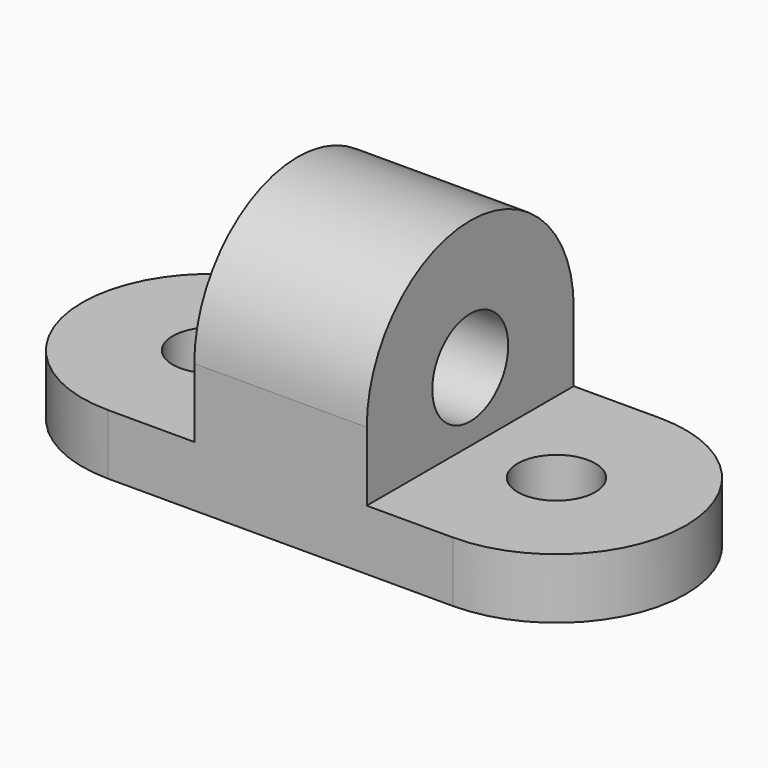
from build123d import *

# Parameters (mm, degrees)
F0_R          = 9
F1_DEPTH      = 14
F2_R          = 11
F3_DEPTH      = 20
F3_DEPTH_BACK = 20


with BuildPart() as f1:
    # F0 (on Top) → F1 (new body)
    with BuildSketch(Plane.XY):
        with BuildLine():
            Line((40, 30), (-40, 30))
            ThreePointArc((-40, 30), (-70, 0), (-40, -30))
            Line((-40, -30), (40, -30))
            ThreePointArc((40, -30), (70, 0), (40, 30))
        make_face()
        with Locations((-40, 0)):
            Circle(F0_R, mode=Mode.SUBTRACT)
        with Locations((40, 0)):
            Circle(F0_R, mode=Mode.SUBTRACT)
    extrude(amount=F1_DEPTH)

    # F2 (on Right) → F3 (join, two sides)
    with BuildSketch(Plane.YZ) as f3_sk:
        with BuildLine():
            Line((30, 13.776121), (30, 30))
            ThreePointArc((30, 30), (0, 60), (-30, 30))
            Line((-30, 30), (-30, 13.871942))
            Line((-30, 13.871942), (30, 13.776121))
        make_face()
        with Locations((0, 30)):
            Circle(F2_R, mode=Mode.SUBTRACT)
    extrude(amount=F3_DEPTH)
    extrude(f3_sk.sketch, amount=-F3_DEPTH_BACK)


solid = f1.part
